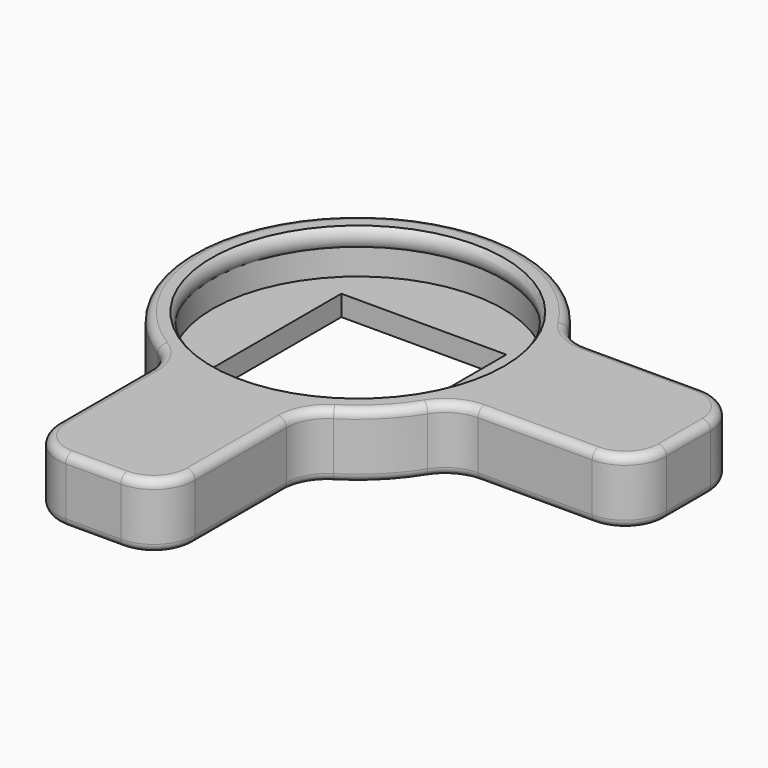
from build123d import *

# Parameters (mm, degrees)
F3_DEPTH = 5.9869614104
F4_R     = 3.81
F5_R     = 0.762
F6_W     = 15.24
F6_H     = 15.24
F7_DEPTH = 25.4


with BuildPart() as f1:
    # F0 (on Front) → F1 (revolve)
    with BuildSketch(Plane.XZ):
        with BuildLine():
            Line((15.3035, 0), (15.3035, 4.1730385896))
            ThreePointArc((15.3035, 4.1730385896), (14.3181376493, 3.8136610654), (13.3985, 4.318))
            Line((13.3985, 4.318), (13.3985, 1.905))
            Line((13.3985, 1.905), (0, 1.905))
            Line((0, 1.905), (0, 0))
            Line((0, 0), (15.3035, 0))
        make_face()
        with BuildLine():
            ThreePointArc((13.3985, 4.318), (14.3181376493, 3.8136610654), (15.3035, 4.1730385896))
            Line((15.3035, 4.1730385896), (15.3035, 5.9869614104))
            Line((15.3035, 5.9869614104), (13.5255, 5.9869614104))
            ThreePointArc((13.5255, 5.9869614104), (13.1481610654, 5.1763623507), (13.3985, 4.318))
        make_face()
    revolve(axis=Axis((0, 0, 4.2298094004), (0, 0, -1)))

    # F2 (on face) → F3 (join, through all)
    with BuildSketch(Plane.XY.offset(5.9869614104)):
        with BuildLine():
            Line((30.5435, -6.35), (30.5435, 6.35))
            Line((30.5435, 6.35), (13.9238863917, 6.35))
            ThreePointArc((13.9238863917, 6.35), (15.3035, 0), (13.9238863917, -6.35))
            Line((13.9238863917, -6.35), (30.5435, -6.35))
        make_face()
        with BuildLine():
            Line((-6.35, -30.5435), (6.35, -30.5435))
            Line((6.35, -30.5435), (6.35, -13.9238863917))
            ThreePointArc((6.35, -13.9238863917), (0, -15.3035), (-6.35, -13.9238863917))
            Line((-6.35, -13.9238863917), (-6.35, -30.5435))
        make_face()
    extrude(amount=-F3_DEPTH)

    # F4
    f4_edges = [f1.edges().sort_by_distance(p)[0] for p in [
        (-6.35, -30.5435, 2.993481),
        (-6.35, -13.923886, 2.993481),
        (6.35, -30.5435, 2.993481),
        (6.35, -13.923886, 2.993481),
        (13.923886, -6.35, 2.993481),
        (30.5435, -6.35, 2.993481),
        (30.5435, 6.35, 2.993481),
        (13.923886, 6.35, 2.993481),
    ]]
    fillet(f4_edges, radius=F4_R)

    # F5
    f5_edges = [f1.edges().sort_by_distance(p)[0] for p in [
        (0, -30.5435, 5.986961),
        (0, -30.5435, 0),
    ]]
    fillet(f5_edges, radius=F5_R)

    # F6 (on face) → F7 (cut)
    with BuildSketch(Plane.XY.offset(1.905)):
        Rectangle(F6_W, F6_H)
    extrude(amount=-F7_DEPTH, mode=Mode.SUBTRACT)


solid = f1.part
